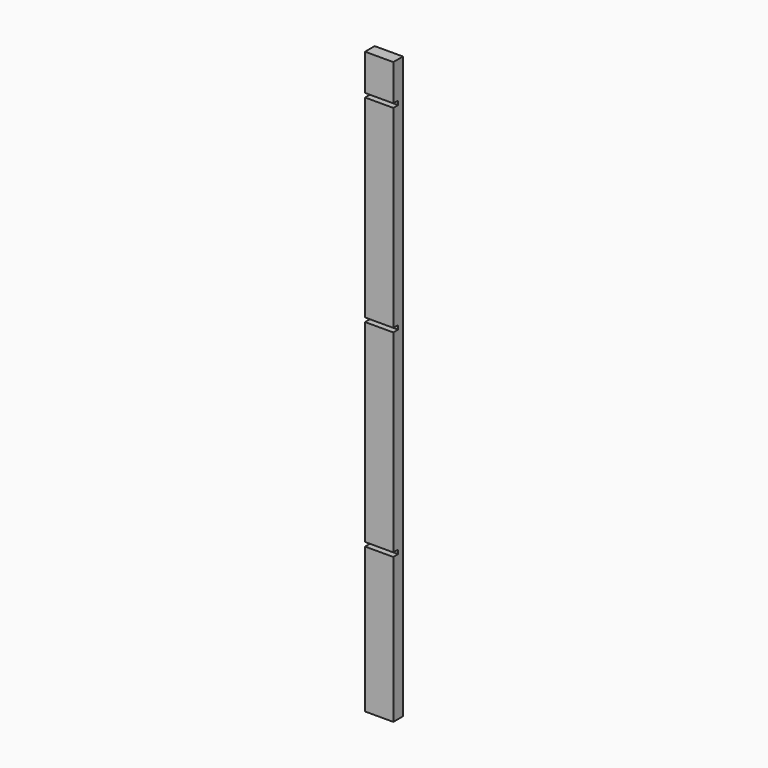
from build123d import *

# Parameters (mm, degrees)
F0_W     = 88.9
F0_H     = 1828.8
F1_DEPTH = 38.1
F2_W     = 19.05
F2_H     = 12.7
F3_DEPTH = 88.9


with BuildPart() as f1:
    # F0 (on Front) → F1 (new body)
    with BuildSketch(Plane.XZ):
        with Locations((44.45, 914.4)):
            Rectangle(F0_W, F0_H)
    extrude(amount=F1_DEPTH)

    # F2 (on face) → F3 (cut, through all)
    with BuildSketch(Plane(origin=(0, 0, 0), x_dir=(0, -1, 0), z_dir=(-1, 0, 0))):
        with Locations((28.575, 1708.15)):
            Rectangle(F2_W, F2_H)
        with Locations((28.575, 1085.85)):
            Rectangle(F2_W, F2_H)
        with Locations((28.575, 463.55)):
            Rectangle(F2_W, F2_H)
    extrude(amount=-F3_DEPTH, mode=Mode.SUBTRACT)


solid = f1.part
